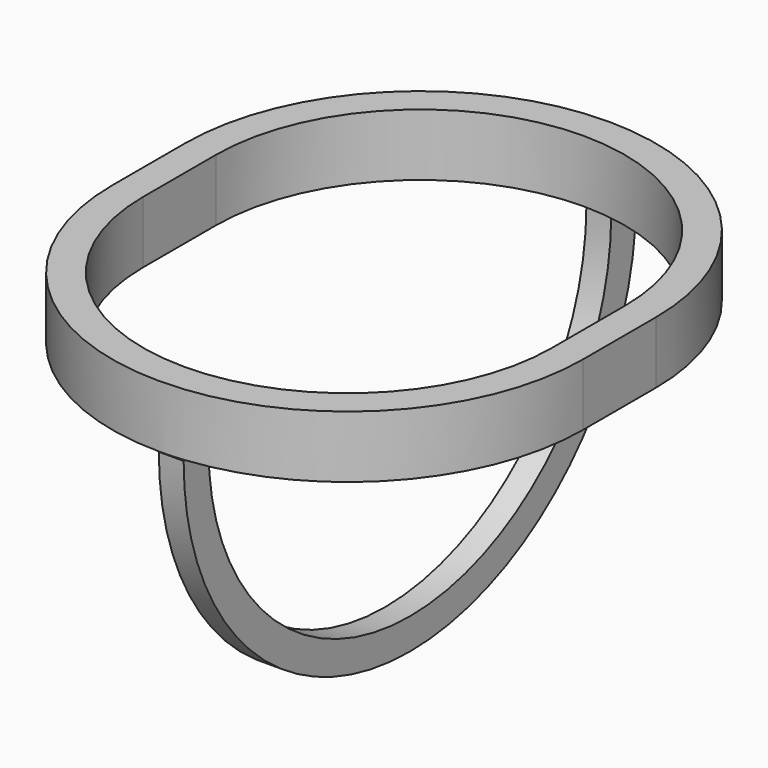
from build123d import *

# Parameters (mm, degrees)
F1_DEPTH = 10
F3_DEPTH = 4


with BuildPart() as f1:
    # F0 (on Top) → F1 (new body)
    with BuildSketch(Plane.XY):
        with BuildLine():
            Line((37.93421, -14.659377), (37.93421, 0))
            ThreePointArc((37.93421, 0), (0, 37.93421), (-37.93421, 0))
            Line((-37.93421, 0), (-37.93421, -14.659377))
            ThreePointArc((-37.93421, -14.659377), (0, -52.593587), (37.93421, -14.659377))
        make_face()
        with BuildLine():
            Line((32.934209, 0), (32.934209, -14.659377))
            ThreePointArc((32.934209, -14.659377), (0, -47.593586), (-32.934209, -14.659377))
            Line((-32.934209, -14.659377), (-32.934209, 0))
            ThreePointArc((-32.934209, 0), (0, 32.934209), (32.934209, 0))
        make_face(mode=Mode.SUBTRACT)
    extrude(amount=-F1_DEPTH)

    # F2 (on Right) → F3 (join)
    with BuildSketch(Plane.YZ):
        with BuildLine():
            Line((-47.67667, -10), (-52.67667, -10))
            ThreePointArc((-52.67667, -10), (-7.12205, -55.554621), (38.432571, -10))
            Line((38.432571, -10), (33.432571, -10))
            ThreePointArc((33.432571, -10), (-7.12205, -50.554621), (-47.67667, -10))
        make_face()
    extrude(amount=F3_DEPTH)


solid = f1.part
